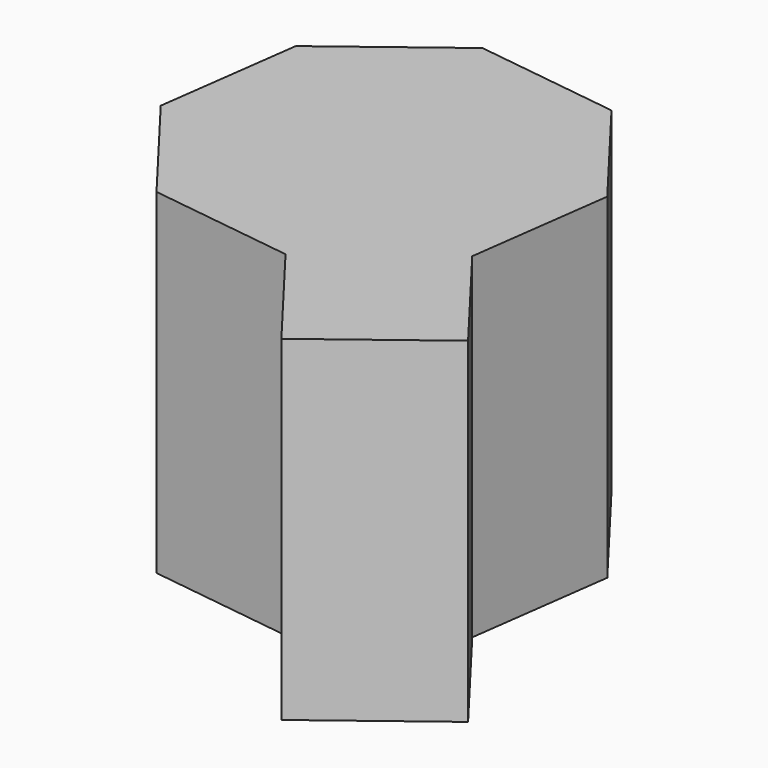
from build123d import *

# Parameters (mm, degrees)
F1_DEPTH = 12.7


with BuildPart() as f1:
    # F0 (on Top) → F1 (new body)
    with BuildSketch(Plane.XY):
        Polygon((-6.950833, -2.485712), (-10.236463, 1.818153), (-14.623778, -1.531184), (-11.338149, -5.835049), align=None)
        Polygon((-14.623778, -1.531184), (-10.236463, 1.818153), (-9.502501, 7.288792), (-12.851838, 11.676108), (-18.322477, 12.410069), (-22.709792, 9.060732), (-23.443754, 3.590093), (-20.094417, -0.797222), align=None)
    extrude(amount=F1_DEPTH)


solid = f1.part
